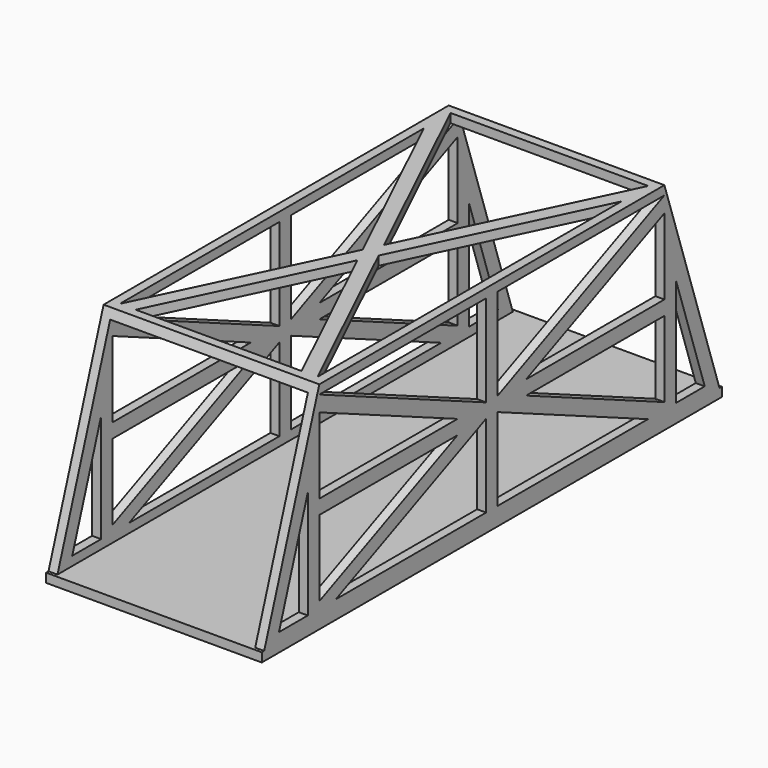
from build123d import *

# Parameters (mm, degrees)
F1_DEPTH  = 38.1
F3_W      = 69.85
F3_H      = 69.85
F4_DEPTH  = 127
F5_DEPTH  = 76.2
F7_DEPTH  = 3.175
F8_W      = 6.5186821197
F8_H      = 3.175
F9_DEPTH  = 76.2
F10_W     = 3.175
F10_H     = 190.1626357606
F11_DEPTH = 3.175
F12_DEPTH = 3.2004


with BuildPart() as f1:
    # F0 (on Right) → F1 (new body, symmetric)
    with BuildSketch(Plane.YZ):
        Polygon((-76.2, 38.1), (-101.6, -38.1), (101.6, -38.1), (76.2, 38.1), align=None)
    extrude(amount=F1_DEPTH, both=True)

    # F3 (on Front) → F4 (cut, symmetric)
    with BuildSketch(Plane.XZ):
        Rectangle(F3_W, F3_H)
    extrude(amount=F4_DEPTH, both=True, mode=Mode.SUBTRACT)

    # F2 (on face) → F5 (cut)
    with BuildSketch(Plane.YZ.offset(38.1)):
        Polygon((-95.0813178803, -34.925), (-81.28, -34.925), (-81.28, 6.4789536409), align=None)
        Polygon((-76.2, -29.37570354), (-15.1619292031, -2.54), (-76.2, -2.54), align=None)
        Polygon((-76.2, 2.54), (-15.1619292031, 2.54), (-76.2, 29.37570354), align=None)
        Polygon((-76.2, 34.925), (-2.54, 2.54), (-2.54, 34.925), align=None)
        Polygon((2.54, 34.925), (2.54, 2.54), (76.2, 34.925), align=None)
        Polygon((15.1619292031, 2.54), (76.2, 2.54), (76.2, 29.37570354), align=None)
        Polygon((15.1619292031, -2.54), (76.2, -29.37570354), (76.2, -2.54), align=None)
        Polygon((2.54, -34.925), (76.2, -34.925), (2.54, -2.54), align=None)
        Polygon((81.28, 6.4789536409), (81.28, -34.925), (95.0813178803, -34.925), align=None)
        Polygon((-76.2, -34.925), (-2.54, -34.925), (-2.54, -2.54), align=None)
    extrude(amount=-F5_DEPTH, mode=Mode.SUBTRACT)

    # F6 (on face) → F7 (cut)
    with BuildSketch(Plane.XY.offset(38.1)):
        Polygon((0, 0), (34.925, 73.025), (-34.925, 73.025), align=None)
        Polygon((-34.925, 61.2509003959), (-34.925, -73.025), (-2.8155455575, -5.8870498021), align=None)
        Polygon((2.8155455575, -5.8870498021), (34.925, -73.025), (34.925, 61.2509003959), align=None)
        Polygon((-29.293908885, -73.025), (29.293908885, -73.025), (0, -11.7740996041), align=None)
    extrude(amount=-F7_DEPTH, mode=Mode.SUBTRACT)

    # F8 (on face) → F9 (join)
    with BuildSketch(Plane.YZ.offset(38.1)):
        with Locations((-98.3406589402, -36.5125)):
            Rectangle(F8_W, F8_H)
        with Locations((98.3406589402, -36.5125)):
            Rectangle(F8_W, F8_H)
    extrude(amount=-F9_DEPTH)

    # F10 (on face) → F11 (join)
    with BuildSketch(Plane.XY.offset(-34.925)):
        with Locations((36.5125, 0)):
            Rectangle(F10_W, F10_H)
        with Locations((-36.5125, 0)):
            Rectangle(F10_W, F10_H)
    extrude(amount=F11_DEPTH)

    # F10 (on face) → F12 (join)
    with BuildSketch(Plane.XY.offset(-34.925)):
        with Locations((36.5125, 0)):
            Rectangle(F10_W, F10_H)
        with Locations((-36.5125, 0)):
            Rectangle(F10_W, F10_H)
    extrude(amount=F12_DEPTH)


solid = f1.part
